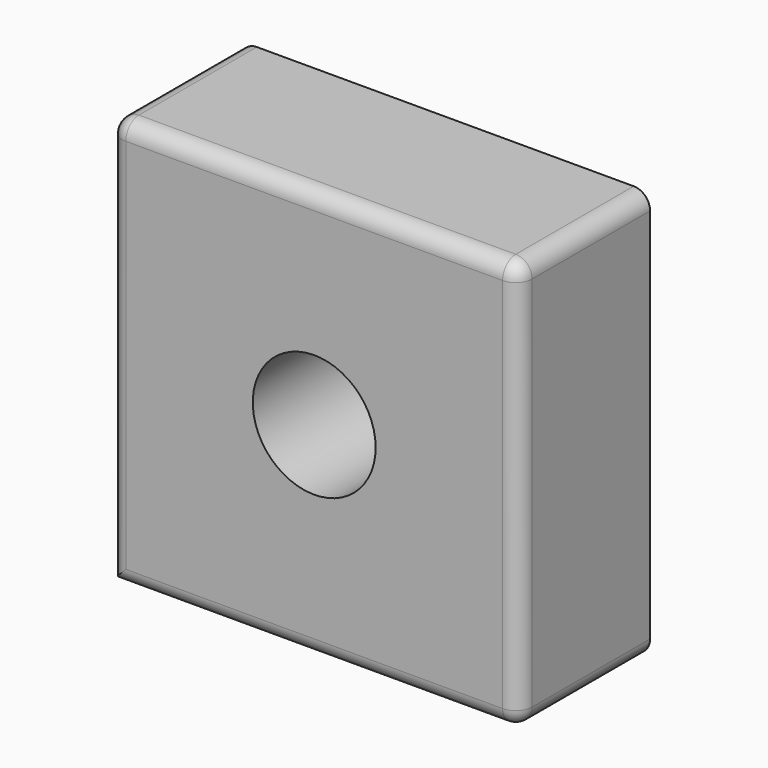
from build123d import *

# Parameters (mm, degrees)
F0_W     = 127
F0_H     = 127
F0_R     = 19.05
F1_DEPTH = 50.8
F2_R     = 5.08


with BuildPart() as f1:
    # F0 (on Front) → F1 (new body)
    with BuildSketch(Plane.XZ):
        Rectangle(F0_W, F0_H)
        Circle(F0_R, mode=Mode.SUBTRACT)
    extrude(amount=F1_DEPTH)

    # F2
    f2_edges = [f1.edges().sort_by_distance(p)[0] for p in [
        (-63.5, -50.8, 0),
        (63.5, -50.8, 0),
        (0, -50.8, -63.5),
        (0, -50.8, 63.5),
        (63.5, -25.4, -63.5),
        (63.5, -25.4, 63.5),
        (-63.5, -25.4, 63.5),
    ]]
    fillet(f2_edges, radius=F2_R)


solid = f1.part
